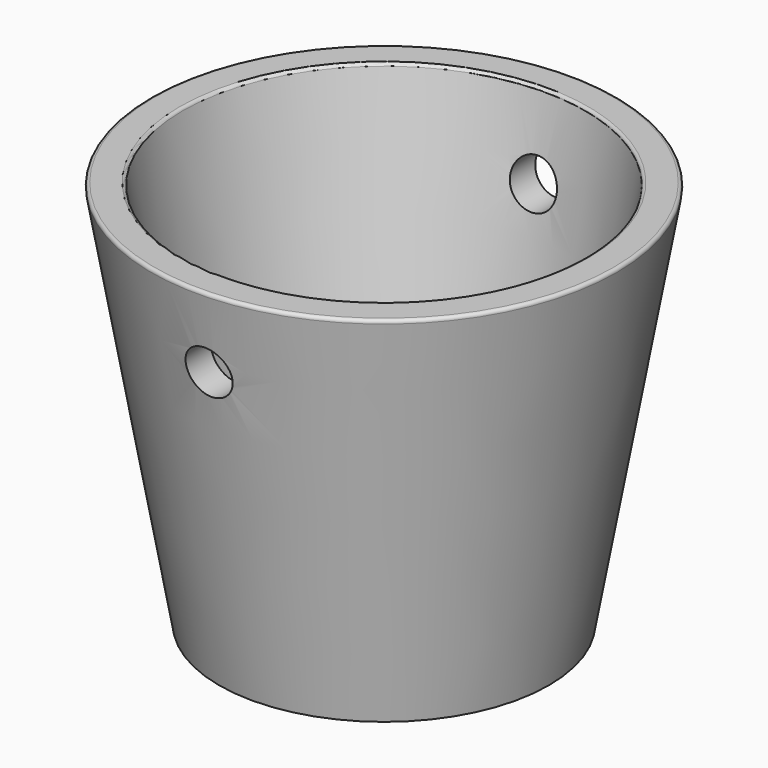
from build123d import *

# Parameters (mm, degrees)
F2_T     = -5.08
F3_R     = 3.81
F4_DEPTH = 254
F5_DEPTH = 254
F6_R     = 0.508


with BuildPart() as f1:
    # F0 (on Front) → F1 (revolve)
    with BuildSketch(Plane.XZ):
        Polygon((0, 0), (0, 63.5), (-38.1, 63.5), (-26.903236725, 0), align=None)
    revolve(axis=Axis((0, 0, 31.75), (0, 0, 1)))

    # F2
    f2_openings = [f1.faces().sort_by_distance(p)[0] for p in [
        (0, 0, 63.5),
    ]]
    offset(amount=F2_T, openings=f2_openings)

    # F3 (on Front) → F4 (cut)
    with BuildSketch(Plane.XZ):
        with Locations((0, 50.8)):
            Circle(F3_R)
    extrude(amount=-F4_DEPTH, mode=Mode.SUBTRACT)

    # F3 (on Front) → F5 (cut)
    with BuildSketch(Plane.XZ):
        with Locations((0, 50.8)):
            Circle(F3_R)
    extrude(amount=F5_DEPTH, mode=Mode.SUBTRACT)

    # F6
    f6_edges = [f1.edges().sort_by_distance(p)[0] for p in [
        (38.1, 0, 63.5),
        (32.941633, 0, 63.5),
    ]]
    fillet(f6_edges, radius=F6_R)


solid = f1.part
